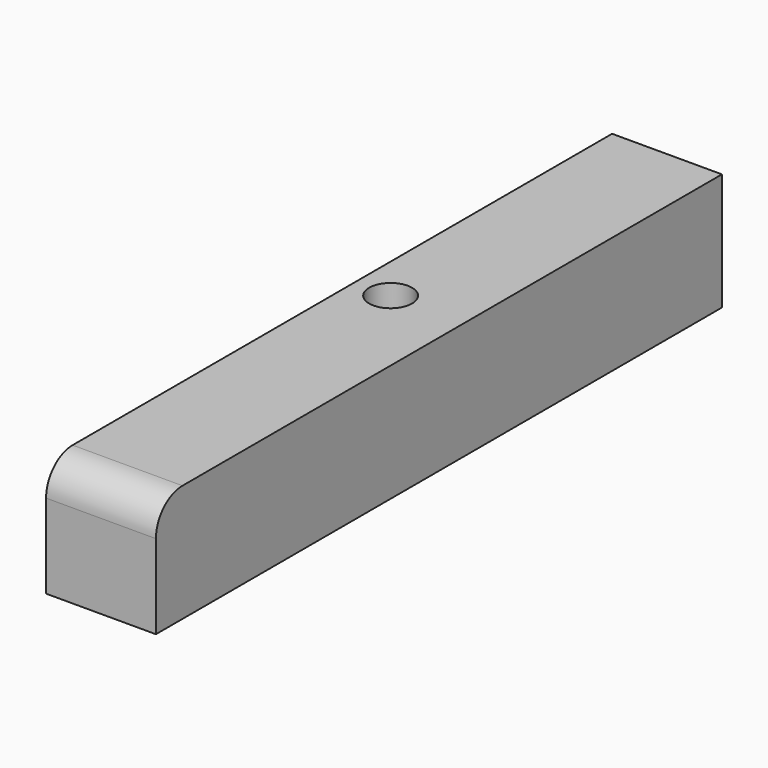
from build123d import *

# Parameters (mm, degrees)
F0_W     = 65.071911
F0_H     = 69.471795
F1_DEPTH = 419.1
F2_R     = 19.622728
F4_D     = 25.4


with BuildPart() as f1:
    # F0 (on Front) → F1 (new body)
    with BuildSketch(Plane.XZ):
        with Locations((32.535956, 80.350911)):
            Rectangle(F0_W, F0_H)
    extrude(amount=F1_DEPTH)

    # F2
    f2_edges = [f1.edges().sort_by_distance(p)[0] for p in [
        (32.535955, -419.1, 115.086809),
    ]]
    fillet(f2_edges, radius=F2_R)

    # F4 (through all)
    with Locations(Plane.XY.offset(115.086809)):
        with Locations((21.306643, -190.605685)):
            Hole(F4_D / 2)


solid = f1.part
